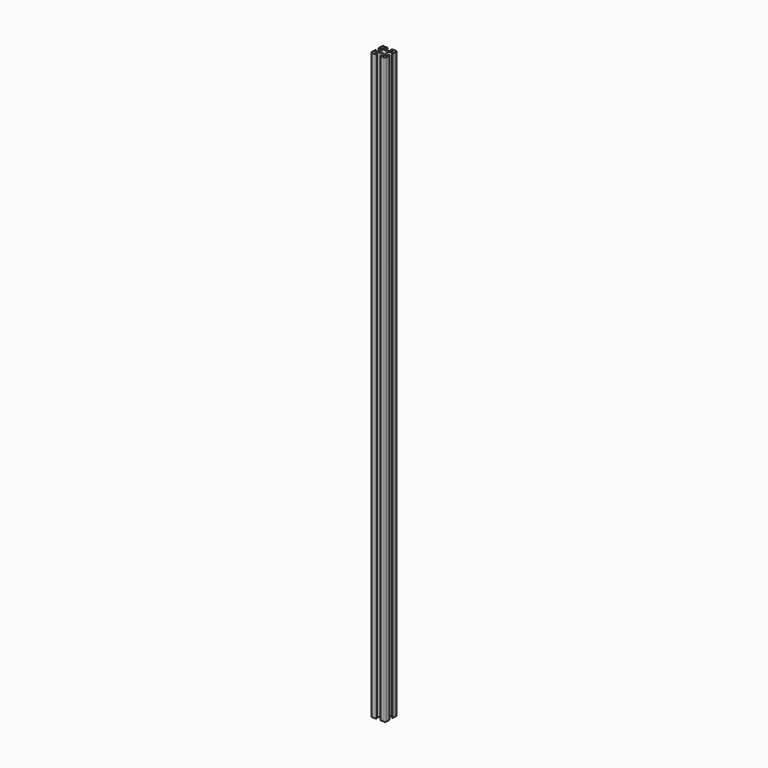
from build123d import *

# Parameters (mm, degrees)
PAD_DEPTH          = 1016
POLARPATTERN_COUNT = 4


with BuildPart() as part:
    # Sketch → Pad (new body)
    with BuildSketch(Plane.XY):
        with BuildLine():
            Line((0, 4.51), (-1.62, 4.51))
            ThreePointArc((-3.903955, 5.456045), (-2.856067, 4.755869), (-1.62, 4.51))
            Line((-7.128362, 8.680452), (-3.903955, 5.456045))
            ThreePointArc((-6.380316, 10.486396), (-7.357685, 9.833338), (-7.128362, 8.680452))
            Line((-6.380316, 10.486396), (-4.366802, 10.486396))
            ThreePointArc((-4.366802, 10.486396), (-3.26, 11.593198), (-4.366802, 12.7))
            Line((-10.54, 12.7), (-4.366802, 12.7))
            ThreePointArc((-10.54, 12.7), (-11.366596, 12.53558), (-12.067351, 12.067351))
            ThreePointArc((-12.067351, 12.067351), (-12.53558, 11.366596), (-12.7, 10.54))
            Line((-12.7, 10.54), (-12.7, 4.366802))
            ThreePointArc((-12.7, 4.366802), (-11.593198, 3.26), (-10.486396, 4.366802))
            Line((-10.486396, 6.380316), (-10.486396, 4.366802))
            ThreePointArc((-8.680452, 7.128362), (-9.833338, 7.357685), (-10.486396, 6.380316))
            Line((-8.680452, 7.128362), (-5.456045, 3.903955))
            ThreePointArc((-4.51, 1.62), (-4.755869, 2.856067), (-5.456045, 3.903955))
            Line((-4.51, 0), (-4.51, 1.62))
            Line((0, 0), (-4.51, 0))
            Line((0, 4.51), (0, 0))
        make_face()
    pad = extrude(amount=PAD_DEPTH)

    # PolarPattern: Pad ×4 about axis
    polarpattern_axis = Axis((0, 0, 0), (0, 0, 1))
    for i in range(1, POLARPATTERN_COUNT):
        add(pad.rotate(polarpattern_axis, i * 360 / POLARPATTERN_COUNT))


solid = part.part
